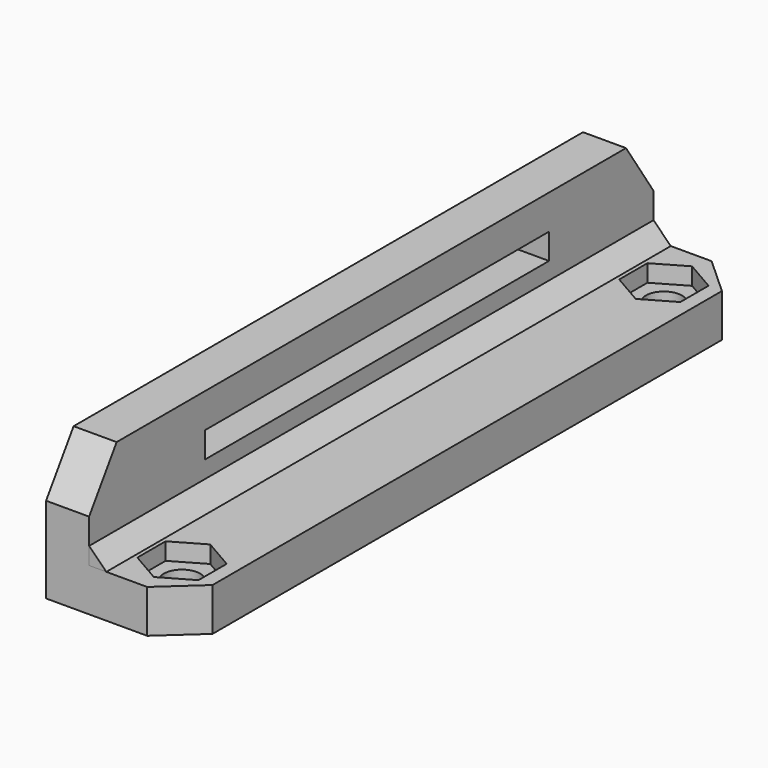
from build123d import *

# Parameters (mm, degrees)
PAD002_DEPTH    = 82
SKETCH001_W     = 50
SKETCH001_H     = 3
PAD001_DEPTH    = 5
SKETCH_R        = 2.1
PAD_DEPTH       = 5
POCKET_DEPTH    = 6
POCKET001_DEPTH = 2


with BuildPart() as pad002:
    # Sketch002 → Pad002 (new body)
    with BuildSketch(Plane(origin=(3, 0, 5), x_dir=(1, 0, 0), z_dir=(0, -1, 0))):
        Polygon((0, 0), (0, 2), (2, 0), align=None)
    extrude(amount=-PAD002_DEPTH)


with BuildPart() as pad001:
    # Sketch001 → Pad001 (new body)
    with BuildSketch(Plane.YZ.offset(-2)):
        Polygon((0, 0), (82, 0), (82, 10), (78, 16), (4, 16), (0, 10), align=None)
        with Locations((41.813425, 10.5)):
            Rectangle(SKETCH001_W, SKETCH001_H, mode=Mode.SUBTRACT)
    extrude(amount=PAD001_DEPTH)


with BuildPart() as pocket001:
    # Sketch → Pad (new body)
    with BuildSketch(Plane.XY):
        Polygon((0, 82), (0, 0), (9.750427, 0), (14.14649, 4), (14.14649, 78), (9.750427, 82), align=None)
        with Locations((9, 6)):
            Circle(SKETCH_R, mode=Mode.SUBTRACT)
        with Locations((9, 76)):
            Circle(SKETCH_R, mode=Mode.SUBTRACT)
    extrude(amount=PAD_DEPTH)

    # Fusion: union Pad001
    add(pad001.part)

    # Sketch003 → Pocket (cut)
    with BuildSketch(Plane(origin=(0, 0, 0), x_dir=(1, 0, 0), z_dir=(0, 0, -1))):
        Polygon((10.103576, -4.3), (11.5, -6), (10.103576, -7.7), align=None)
        Polygon((10.103576, -74.3), (10.103576, -77.7), (11.5, -76), align=None)
    extrude(amount=-POCKET_DEPTH, mode=Mode.SUBTRACT)

    # Sketch004 → Pocket001 (cut)
    with BuildSketch(Plane.XY.offset(5)):
        Polygon((9, 71.9), (12.550704, 73.95), (12.550704, 78.05), (9, 80.1), (5.449296, 78.05), (5.449296, 73.95), align=None)
        Polygon((9, 10.1), (5.449296, 8.05), (5.449296, 3.95), (9, 1.9), (12.550704, 3.95), (12.550704, 8.05), align=None)
    extrude(amount=-POCKET001_DEPTH, mode=Mode.SUBTRACT)


solid = Compound([pad002.part, pocket001.part])
